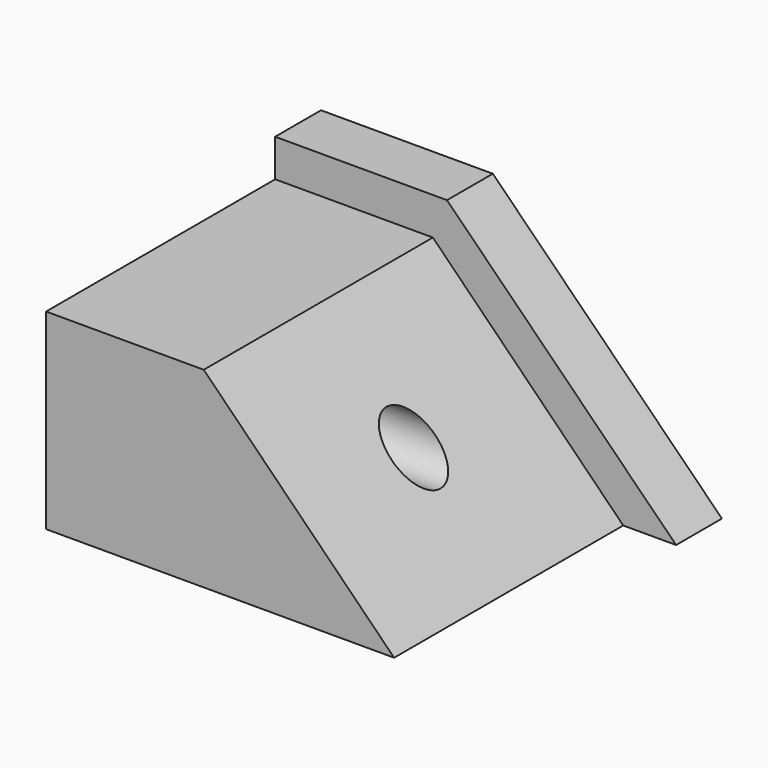
from build123d import *

# Parameters (mm, degrees)
F1_DEPTH = 76.2
F3_DEPTH = 63.5
F4_R     = 6.026978
F5_DEPTH = 254


with BuildPart() as f1:
    # F0 (on Front) → F1 (new body)
    with BuildSketch(Plane.XZ):
        Polygon((0, 28.421371), (-38.1, 28.421371), (-38.1, -22.378629), (50.8, -22.378629), align=None)
    extrude(amount=F1_DEPTH)

    # F2 (on face) → F3 (cut)
    with BuildSketch(Plane.XZ.offset(76.2)):
        Polygon((-38.1, 28.421371), (-38.1, 20.109465), (-3.135807, 20.109465), (39.077971, -22.378629), (50.8, -22.378629), (0, 28.421371), align=None)
    extrude(amount=-F3_DEPTH, mode=Mode.SUBTRACT)

    # F4 (on face) → F5 (cut)
    with BuildSketch(Plane(origin=(-38.1, 0, 0), x_dir=(0, -1, 0), z_dir=(-1, 0, 0))):
        with Locations((44.45, -1.134582)):
            Circle(F4_R)
    extrude(amount=-F5_DEPTH, mode=Mode.SUBTRACT)


solid = f1.part
